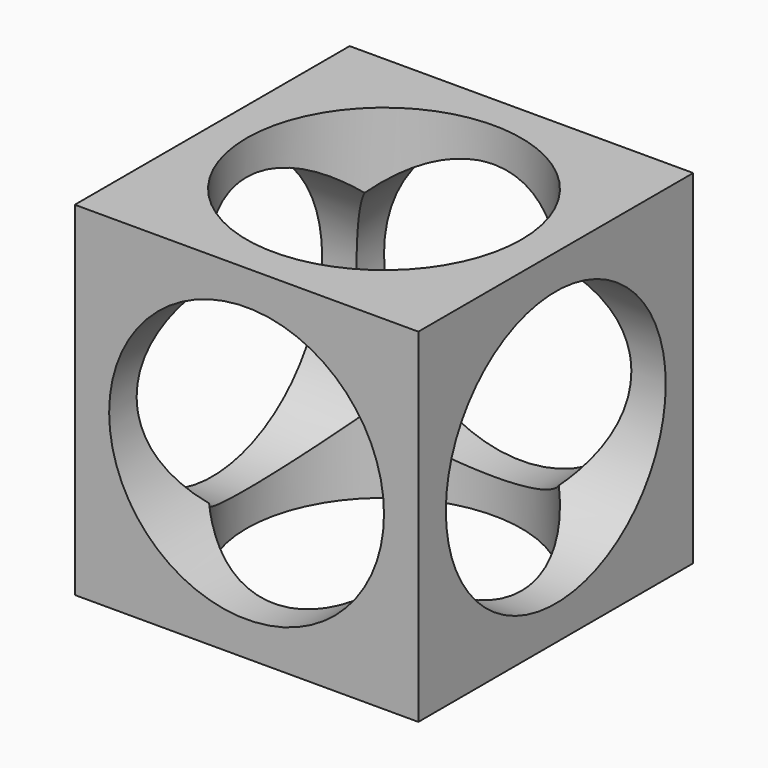
from build123d import *

# Parameters (mm, degrees)
F0_W       = 100
F0_H       = 100
F1_DEPTH   = 50
F5_D       = 80
F5_ON_F4_D = 80
F5_ON_F3_D = 80


with BuildPart() as f1:
    # F0 (on Front) → F1 (new body, symmetric)
    with BuildSketch(Plane.XZ):
        Rectangle(F0_W, F0_H)
    extrude(amount=F1_DEPTH, both=True)

    # F5 (through all)
    with Locations(Plane.XZ.offset(50)):
        with Locations((0, 0)):
            Hole(F5_D / 2)

    # F5 on F4 (through all)
    with Locations(Plane.XY.offset(50)):
        with Locations((0, 0)):
            Hole(F5_ON_F4_D / 2)

    # F5 on F3 (through all)
    with Locations(Plane.YZ.offset(50)):
        with Locations((0, 0)):
            Hole(F5_ON_F3_D / 2)


solid = f1.part
